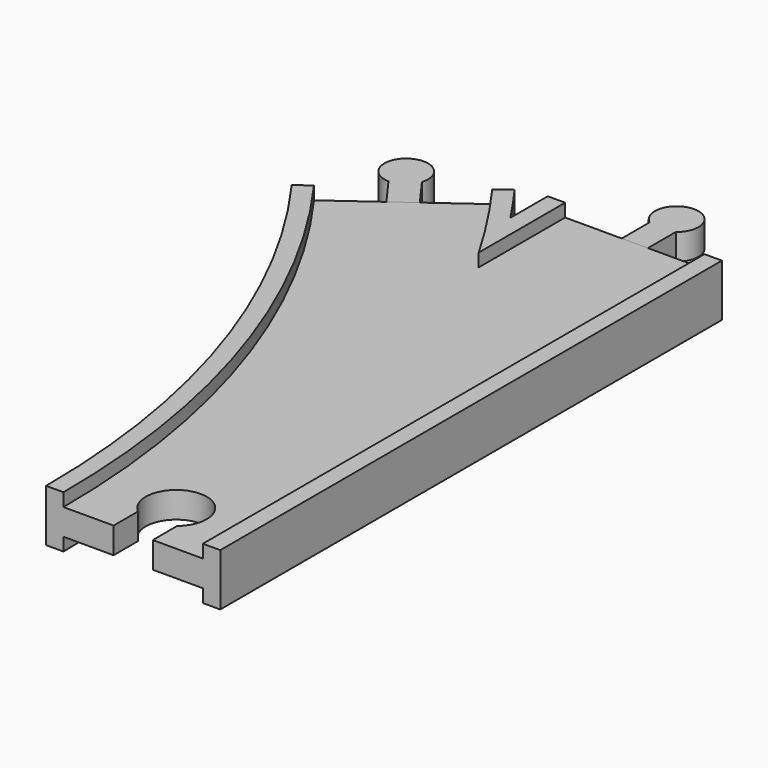
from build123d import *

# Parameters (mm, degrees)
SKETCH013_W       = 32
SKETCH013_H       = 3
POCKET_DEPTH      = 6.001
POCKET_DEPTH_BACK = -6.001
PAD001_DEPTH      = 3
PAD002_DEPTH      = 3


with BuildPart() as body:
    # AdditivePipe: sweep along a path in Sketch002
    with BuildLine(Plane.XY) as additivepipe_path:
        ThreePointArc((0, 0), (-10.865453, 68.601773), (-42.398227, 130.488326))
    # Sketch → AdditivePipe (sweep)
    with BuildSketch(Plane.XZ):
        Polygon((-20, 6), (-20, -6), (-16, -6), (-16, -3), (-9, -3), (9, -3), (16, -3), (16, -6), (20, -6), (20, 6), (16, 6), (16, 3), (9, 3), (-9, 3), (-16, 3), (-16, 6), align=None)
    sweep(path=additivepipe_path.line)

    # AdditivePipe001: sweep along a path in Sketch001
    with BuildLine(Plane.XY) as additivepipe001_path:
        Line((0, 0), (0, 144))
    # Sketch → AdditivePipe001 (sweep)
    with BuildSketch(Plane.XZ):
        Polygon((-20, 6), (-20, -6), (-16, -6), (-16, -3), (-9, -3), (9, -3), (16, -3), (16, -6), (20, -6), (20, 6), (16, 6), (16, 3), (9, 3), (-9, 3), (-16, 3), (-16, 6), align=None)
    sweep(path=additivepipe001_path.line)

    # SubtractivePipe: sweep along a path in Sketch002
    with BuildLine(Plane.XY) as subtractivepipe_path:
        ThreePointArc((0, 0), (-10.865453, 68.601773), (-42.398227, 130.488326))
    # Sketch013 (on Face1 of AdditivePipe001) → SubtractivePipe (sweep, cut)
    with BuildSketch(Plane.XZ):
        with Locations((0, 4.5)):
            Rectangle(SKETCH013_W, SKETCH013_H)
    subtractivepipe = sweep(path=subtractivepipe_path.line, mode=Mode.SUBTRACT)

    # SubtractivePipe001: sweep along a path in Sketch001
    with BuildLine(Plane.XY) as subtractivepipe001_path:
        Line((0, 0), (0, 144))
    # Sketch013 (on Face1 of AdditivePipe001) → SubtractivePipe001 (sweep, cut)
    with BuildSketch(Plane.XZ):
        with Locations((0, 4.5)):
            Rectangle(SKETCH013_W, SKETCH013_H)
    subtractivepipe001 = sweep(path=subtractivepipe001_path.line, mode=Mode.SUBTRACT)

    # Mirrored: SubtractivePipe across XY
    add(subtractivepipe.mirror(Plane.XY), mode=Mode.SUBTRACT)

    # Mirrored001: SubtractivePipe001 across XY
    add(subtractivepipe001.mirror(Plane.XY), mode=Mode.SUBTRACT)

    # Sketch014 → Pocket (cut, two sides)
    with BuildSketch(Plane.XY) as pocket_sk:
        with BuildLine():
            Line((-4.5, 0), (4.5, 0))
            Line((4.5, 0), (4.5, 7))
            ThreePointArc((4.5, 7), (0, 19.361903), (-4.5, 7))
            Line((-4.5, 0), (-4.5, 7))
        make_face()
    extrude(amount=-POCKET_DEPTH, mode=Mode.SUBTRACT)
    extrude(pocket_sk.sketch, amount=-POCKET_DEPTH_BACK, mode=Mode.SUBTRACT)


with BuildPart() as body002:
    # Sketch011 → Pad001 (new body, symmetric)
    with BuildSketch(Plane.XY):
        with BuildLine():
            Line((-3, 144), (3, 144))
            Line((3, 144), (3, 152))
            ThreePointArc((3, 152), (0, 161), (-3, 152))
            Line((-3, 144), (-3, 152))
        make_face()
    extrude(amount=PAD001_DEPTH, both=True)


with BuildPart() as body003:
    # Sketch012 → Pad002 (new body, symmetric)
    with BuildSketch(Plane.XY):
        with BuildLine():
            Line((-44.825278, 128.72497), (-39.971176, 132.251682))
            Line((-39.971176, 132.251682), (-44.673458, 138.723818))
            ThreePointArc((-44.673458, 138.723818), (-52.390577, 144.241615), (-49.52756, 135.197106))
            Line((-44.825278, 128.72497), (-49.52756, 135.197106))
        make_face()
    extrude(amount=PAD002_DEPTH, both=True)


solid = Compound([body.part, body002.part, body003.part])
